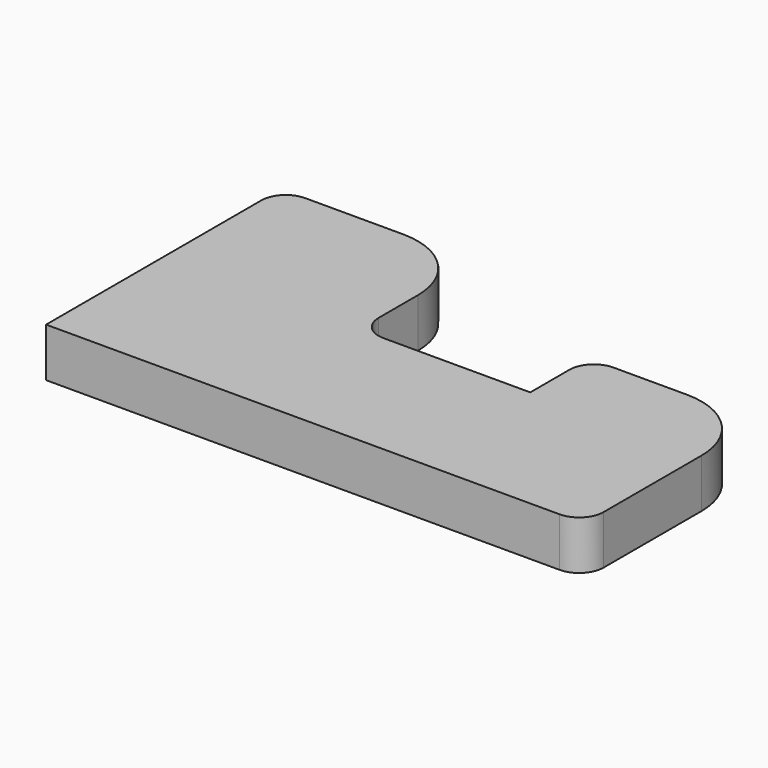
from build123d import *

# Parameters (mm, degrees)
F1_DEPTH = 25.4


with BuildPart() as f1:
    # F0 (on Top) → F1 (new body)
    with BuildSketch(Plane.XY):
        with BuildLine():
            Line((-114.333168, 81.04653), (-114.333168, -58.65347))
            Line((-114.333168, -58.65347), (152.366832, -58.65347))
            ThreePointArc((152.366832, -58.65347), (161.347088, -54.933726), (165.066832, -45.95347))
            Line((165.066832, -45.95347), (165.066832, 17.54653))
            ThreePointArc((165.066832, 17.54653), (153.907601, 44.487298), (126.966832, 55.64653))
            Line((126.966832, 55.64653), (88.866832, 55.64653))
            ThreePointArc((88.866832, 55.64653), (79.886576, 51.926786), (76.166832, 42.94653))
            Line((76.166832, 42.94653), (76.166832, 17.54653))
            Line((76.166832, 17.54653), (-0.033168, 17.54653))
            ThreePointArc((-0.033168, 17.54653), (-9.013424, 21.266274), (-12.733168, 30.24653))
            Line((-12.733168, 30.24653), (-12.733168, 55.64653))
            ThreePointArc((-12.733168, 55.64653), (-23.892399, 82.587298), (-50.833168, 93.74653))
            Line((-50.833168, 93.74653), (-101.633168, 93.74653))
            ThreePointArc((-101.633168, 93.74653), (-110.613424, 90.026786), (-114.333168, 81.04653))
        make_face()
    extrude(amount=F1_DEPTH)


solid = f1.part
